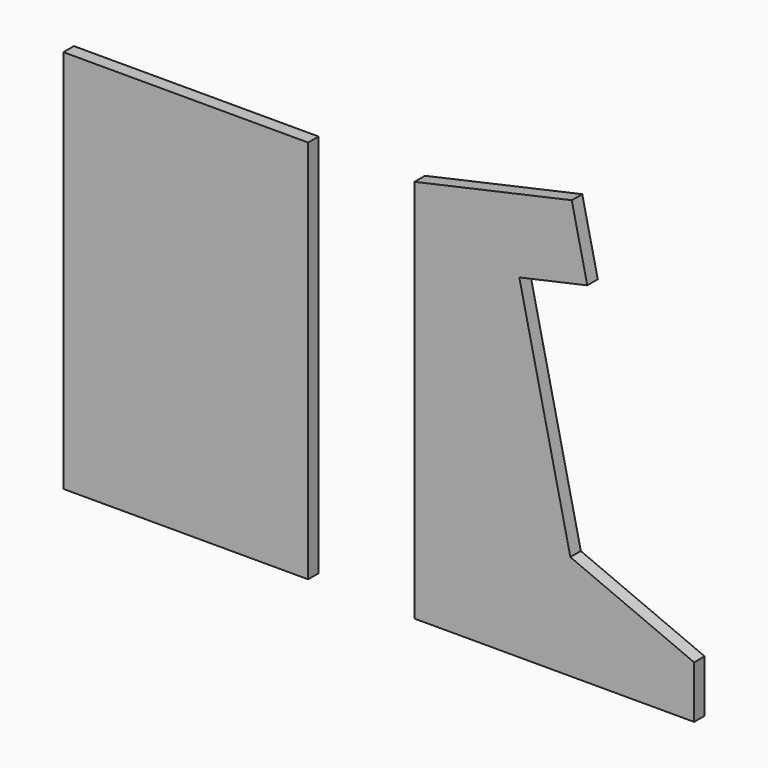
from build123d import *

# Parameters (mm, degrees)
F0_W     = 355.6
F0_H     = 609.6
F1_DEPTH = 19.05
F2_W     = 406.4
F2_H     = 609.6
F3_DEPTH = 19.05
F5_DEPTH = 19.051
F6_W     = 355.6
F6_H     = 50.8
F7_DEPTH = 19.051


with BuildPart() as f1:
    # F0 (on Front) → F1 (new body)
    with BuildSketch(Plane.XZ):
        with Locations((177.8, 304.8)):
            Rectangle(F0_W, F0_H)
    extrude(amount=F1_DEPTH)

    # F6 (on face) → F7 (cut, through all)
    with BuildSketch(Plane.XZ.offset(19.05)):
        with Locations((177.8, 584.2)):
            Rectangle(F6_W, F6_H)
    extrude(amount=-F7_DEPTH, mode=Mode.SUBTRACT)


with BuildPart() as f3:
    # F2 (on Front) → F3 (new body)
    with BuildSketch(Plane.XZ):
        with Locations((713.342863, 304.8)):
            Rectangle(F2_W, F2_H)
    extrude(amount=F3_DEPTH)

    # F4 (on face) → F5 (cut, through all)
    with BuildSketch(Plane.XZ.offset(19.05)):
        Polygon((916.542863, 609.6), (738.742863, 609.6), (761.320641, 508), (662.542863, 486.049383), (736.68717, 152.4), (916.542863, 76.2), align=None)
        Polygon((510.142863, 558.8), (738.742863, 609.6), (510.142863, 609.6), align=None)
    extrude(amount=-F5_DEPTH, mode=Mode.SUBTRACT)


solid = Compound([f1.part, f3.part])
